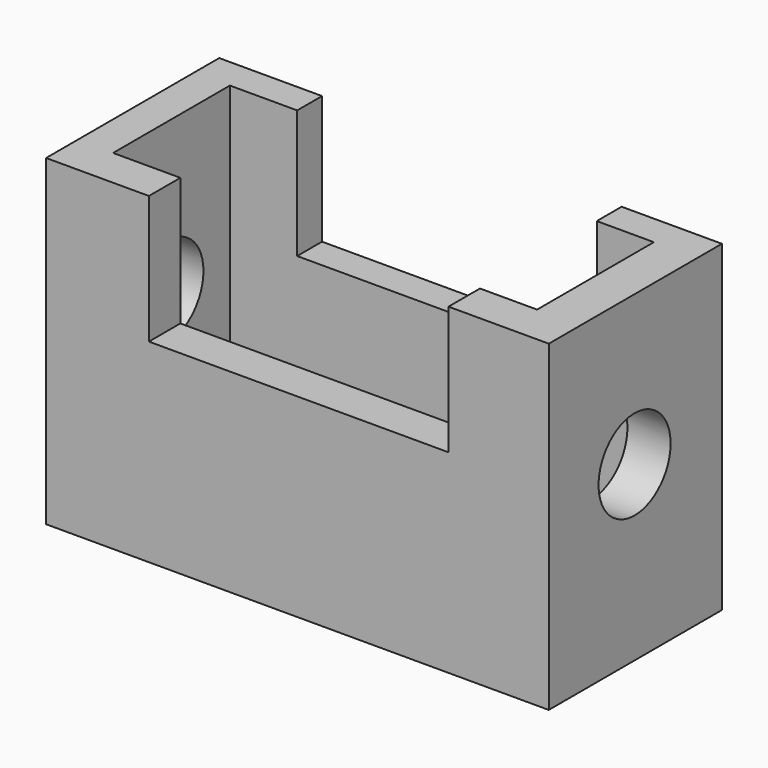
from build123d import *

# Parameters (mm, degrees)
F0_W     = 118.0035807192
F0_H     = 75.6891593337
F1_DEPTH = 50.8
F2_W     = 99.5282679796
F2_H     = 34.2687154189
F3_DEPTH = 75.6901593337
F4_W     = 70.3253671527
F4_H     = 30.096870847
F4_H_2   = 7.7477134764
F5_DEPTH = 50.801
F6_R     = 10.5691557052
F7_DEPTH = 118.0045807192


with BuildPart() as f1:
    # F0 (on Front) → F1 (new body)
    with BuildSketch(Plane.XZ):
        with Locations((4.1718464345, 3.1288824975)):
            Rectangle(F0_W, F0_H)
    extrude(amount=F1_DEPTH)

    # F2 (on face) → F3 (cut, through all)
    with BuildSketch(Plane(origin=(0, 0, -34.7156971693), x_dir=(1, 0, 0), z_dir=(0, 0, -1))):
        with Locations((3.277875483, 24.4350838475)):
            Rectangle(F2_W, F2_H)
    extrude(amount=-F3_DEPTH, mode=Mode.SUBTRACT)

    # F4 (on face) → F5 (cut, through all)
    with BuildSketch(Plane.XZ.offset(50.8)):
        with Locations((4.4698342681, 25.9250267409)):
            Rectangle(F4_W, F4_H)
        with Locations((4.4698342681, 44.8473189026)):
            Rectangle(F4_W, F4_H_2)
    extrude(amount=-F5_DEPTH, mode=Mode.SUBTRACT)

    # F6 (on face) → F7 (cut, through all)
    with BuildSketch(Plane.YZ.offset(63.1736367941)):
        with Locations((-25.6270393729, 5.8107818477)):
            Circle(F6_R)
    extrude(amount=-F7_DEPTH, mode=Mode.SUBTRACT)


solid = f1.part
